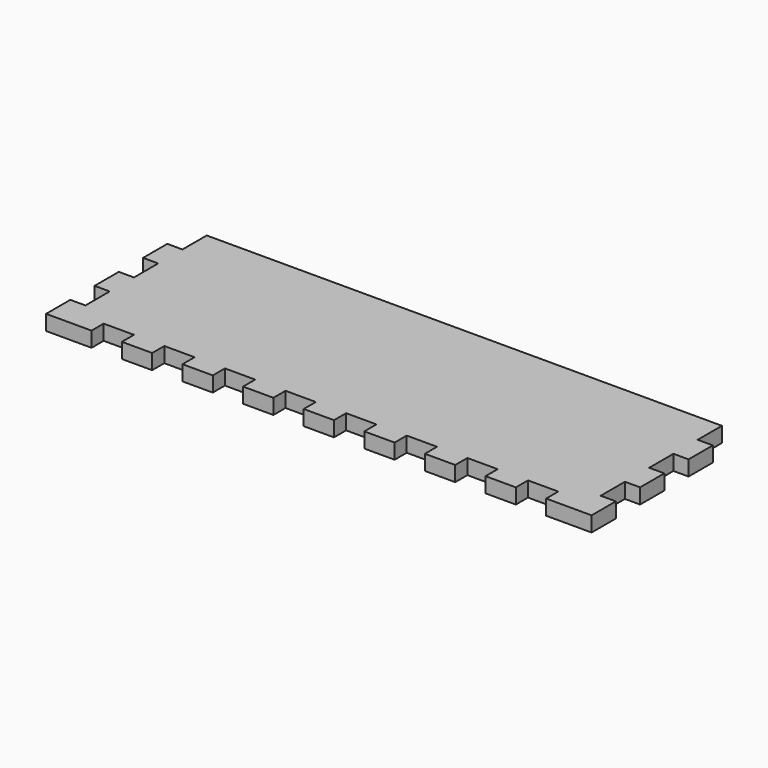
from build123d import *

# Parameters (mm, degrees)
F1_DEPTH = 6.35


with BuildPart() as f1:
    # F0 (on Top) → F1 (new body)
    with BuildSketch(Plane.XY):
        Polygon((222.25, 0), (6.35, 0), (6.35, -12.7), (0, -12.7), (0, -25.4), (6.35, -25.4), (6.35, -38.1), (0, -38.1), (0, -50.8), (6.35, -50.8), (6.35, -63.5), (0, -63.5), (0, -76.2), (19.054016, -76.2), (19.054016, -69.85), (31.754016, -69.85), (31.754016, -76.2), (44.454016, -76.2), (44.454016, -69.85), (57.154016, -69.85), (57.154016, -76.2), (69.854016, -76.2), (69.854016, -69.85), (82.554016, -69.85), (82.554016, -76.2), (95.254016, -76.2), (95.254016, -69.85), (107.954016, -69.85), (107.954016, -76.2), (120.654016, -76.2), (120.654016, -69.85), (133.354016, -69.85), (133.354016, -76.2), (146.054016, -76.2), (146.054016, -69.85), (158.754016, -69.85), (158.754016, -76.2), (171.454016, -76.2), (171.454016, -69.85), (184.154016, -69.85), (184.154016, -76.2), (196.854016, -76.2), (196.854016, -69.85), (209.554016, -69.85), (209.554016, -76.2), (228.6, -76.2), (228.6, -63.5), (222.25, -63.5), (222.25, -50.8), (228.6, -50.8), (228.6, -38.1), (222.25, -38.1), (222.25, -25.4), (228.6, -25.4), (228.6, -12.7), (222.25, -12.7), align=None)
    extrude(amount=F1_DEPTH)


solid = f1.part
